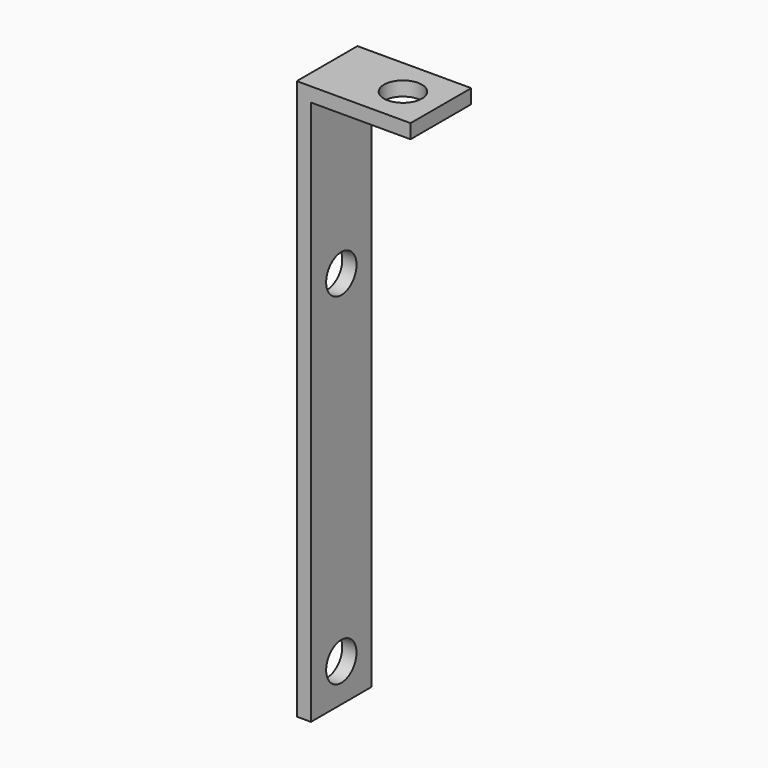
from build123d import *

# Parameters (mm, degrees)
F1_DEPTH = 25.4
F3_D     = 12.7
F5_D     = 12.7


with BuildPart() as f1:
    # F0 (on Front) → F1 (new body)
    with BuildSketch(Plane.XZ):
        Polygon((0, 187.325), (0, 0), (4.7625, 0), (4.7625, 182.5625), (38.1, 182.5625), (38.1, 187.325), align=None)
    extrude(amount=F1_DEPTH)

    # F3 (through all)
    with Locations(Plane.YZ.offset(4.7625)):
        with Locations((-12.7, 127), (-12.7, 12.7)):
            Hole(F3_D / 2)

    # F5 (through all)
    with Locations(Plane(origin=(0, 0, 182.5625), x_dir=(1, 0, 0), z_dir=(0, 0, -1))):
        with Locations((25.4, 12.7)):
            Hole(F5_D / 2)


solid = f1.part
